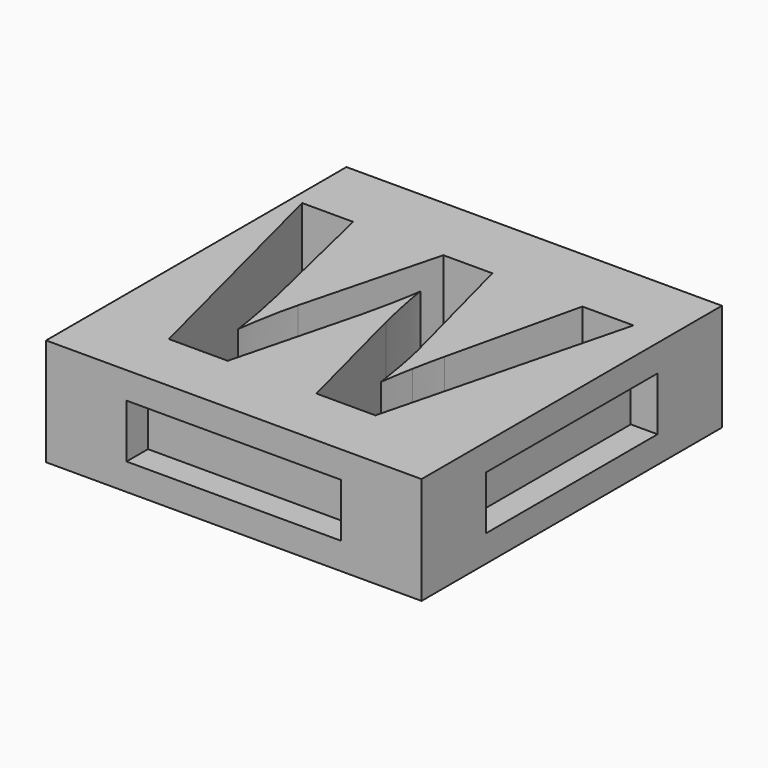
from build123d import *

# Parameters (mm, degrees)
F0_W     = 35.56
F0_H     = 35.56
F1_DEPTH = 5.08
F2_W     = 19.812
F2_H     = 4.572
F3_DEPTH = 2.54
F4_W     = 19.812
F4_H     = 4.572
F5_DEPTH = 2.54
F6_W     = 20.32
F6_H     = 5.08
F7_DEPTH = 2.54
F8_W     = 20.32
F8_H     = 5.08
F9_DEPTH = 2.54


with BuildPart() as f1:
    # F0 (on Top) → F1 (new body, symmetric)
    with BuildSketch(Plane.XY):
        Rectangle(F0_W, F0_H)
        with BuildLine():
            Line((14.6379626736, 11.2322239583), (8.7401796875, -11.938))
            Line((8.7401796875, -11.938), (3.1466675347, -11.938))
            Line((3.1466675347, -11.938), (0.0076067708, 0.2328333333))
            add(Edge.make_bspline(
                [(0.0076067708, 0.2328333333), (-0.1648133681, 0.8819444444), (-0.5857213542, 2.9180234375)],
                knots=[0, 0, 0, 1, 1, 1], degree=2))
            add(Edge.make_bspline(
                [(-0.5857213542, 2.9180234375), (-1.0066293403, 4.9541024306), (-1.0674835069, 5.6539253472)],
                knots=[0, 0, 0, 1, 1, 1], degree=2))
            add(Edge.make_bspline(
                [(-1.0674835069, 5.6539253472), (-1.1638359375, 4.7968958333), (-1.5441744792, 2.9028098958)],
                knots=[0, 0, 0, 1, 1, 1], degree=2))
            add(Edge.make_bspline(
                [(-1.5441744792, 2.9028098958), (-1.9245130208, 1.0087239583), (-2.1324314236, 0.20240625)],
                knots=[0, 0, 0, 1, 1, 1], degree=2))
            Line((-2.1324314236, 0.20240625), (-5.2512074653, -11.938))
            Line((-5.2512074653, -11.938), (-10.8295060764, -11.938))
            Line((-10.8295060764, -11.938), (-16.7425026042, 11.2322239583))
            Line((-16.7425026042, 11.2322239583), (-11.9096675347, 11.2322239583))
            Line((-11.9096675347, 11.2322239583), (-8.9430269097, -1.4153003472))
            add(Edge.make_bspline(
                [(-8.9430269097, -1.4153003472), (-8.1671362847, -4.9194861111), (-7.8222960069, -7.4855034722)],
                knots=[0, 0, 0, 1, 1, 1], degree=2))
            add(Edge.make_bspline(
                [(-7.8222960069, -7.4855034722), (-7.7259435764, -6.5828333333), (-7.3836388889, -4.6887473958)],
                knots=[0, 0, 0, 1, 1, 1], degree=2))
            add(Edge.make_bspline(
                [(-7.3836388889, -4.6887473958), (-7.0413342014, -2.7946614583), (-6.7421345486, -1.7499982639)],
                knots=[0, 0, 0, 1, 1, 1], degree=2))
            Line((-6.7421345486, -1.7499982639), (-3.3647282986, 11.2322239583))
            Line((-3.3647282986, 11.2322239583), (1.2754019097, 11.2322239583))
            Line((1.2754019097, 11.2322239583), (4.6528081597, -1.7499982639))
            add(Edge.make_bspline(
                [(4.6528081597, -1.7499982639), (4.8759401042, -2.6171701389), (5.2081024306, -4.4098324653)],
                knots=[0, 0, 0, 1, 1, 1], degree=2))
            add(Edge.make_bspline(
                [(5.2081024306, -4.4098324653), (5.5402647569, -6.2024947917), (5.7126848958, -7.4855034722)],
                knots=[0, 0, 0, 1, 1, 1], degree=2))
            add(Edge.make_bspline(
                [(5.7126848958, -7.4855034722), (5.8698914931, -6.2481354167), (6.2198029514, -4.4022256944)],
                knots=[0, 0, 0, 1, 1, 1], degree=2))
            add(Edge.make_bspline(
                [(6.2198029514, -4.4022256944), (6.5697144097, -2.5563159722), (6.8537005208, -1.4153003472)],
                knots=[0, 0, 0, 1, 1, 1], degree=2))
            Line((6.8537005208, -1.4153003472), (9.8000564236, 11.2322239583))
            Line((9.8000564236, 11.2322239583), (14.6379626736, 11.2322239583))
        make_face(mode=Mode.SUBTRACT)
    extrude(amount=F1_DEPTH, both=True)

    # F2 (on face) → F3 (join)
    with BuildSketch(Plane(origin=(0, 17.78, 0), x_dir=(-1, 0, 0), z_dir=(0, 1, 0))):
        Rectangle(F2_W, F2_H)
    extrude(amount=F3_DEPTH)

    # F4 (on face) → F5 (join)
    with BuildSketch(Plane(origin=(-17.78, 0, 0), x_dir=(0, -1, 0), z_dir=(-1, 0, 0))):
        Rectangle(F4_W, F4_H)
    extrude(amount=F5_DEPTH)

    # F6 (on face) → F7 (cut)
    with BuildSketch(Plane.XZ.offset(17.78)):
        Rectangle(F6_W, F6_H)
    extrude(amount=-F7_DEPTH, mode=Mode.SUBTRACT)

    # F8 (on face) → F9 (cut)
    with BuildSketch(Plane.YZ.offset(17.78)):
        Rectangle(F8_W, F8_H)
    extrude(amount=-F9_DEPTH, mode=Mode.SUBTRACT)


solid = f1.part
